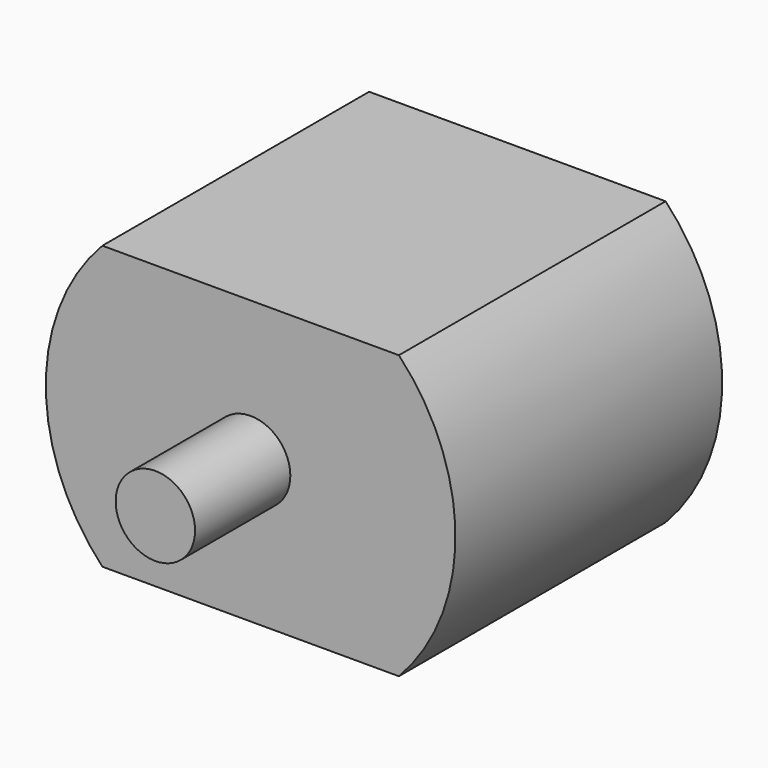
from build123d import *

# Parameters (mm, degrees)
F0_R     = 2.5
F1_DEPTH = 18
F2_DEPTH = 10.5


with BuildPart() as f1:
    # F0 (on Front) → F1 (new body, symmetric)
    with BuildSketch(Plane.XZ):
        Circle(F0_R)
    extrude(amount=F1_DEPTH, both=True)

    # F0 (on Front) → F2 (join, symmetric)
    with BuildSketch(Plane.XZ):
        with BuildLine():
            Line((9.3380940239, 8.9), (-9.3380940239, 8.9))
            ThreePointArc((-9.3380940239, 8.9), (-12.9, 0), (-9.3380940239, -8.9))
            Line((-9.3380940239, -8.9), (9.3380940239, -8.9))
            ThreePointArc((9.3380940239, -8.9), (12.9, 0), (9.3380940239, 8.9))
        make_face()
        Circle(F0_R, mode=Mode.SUBTRACT)
    extrude(amount=F2_DEPTH, both=True)


solid = f1.part
